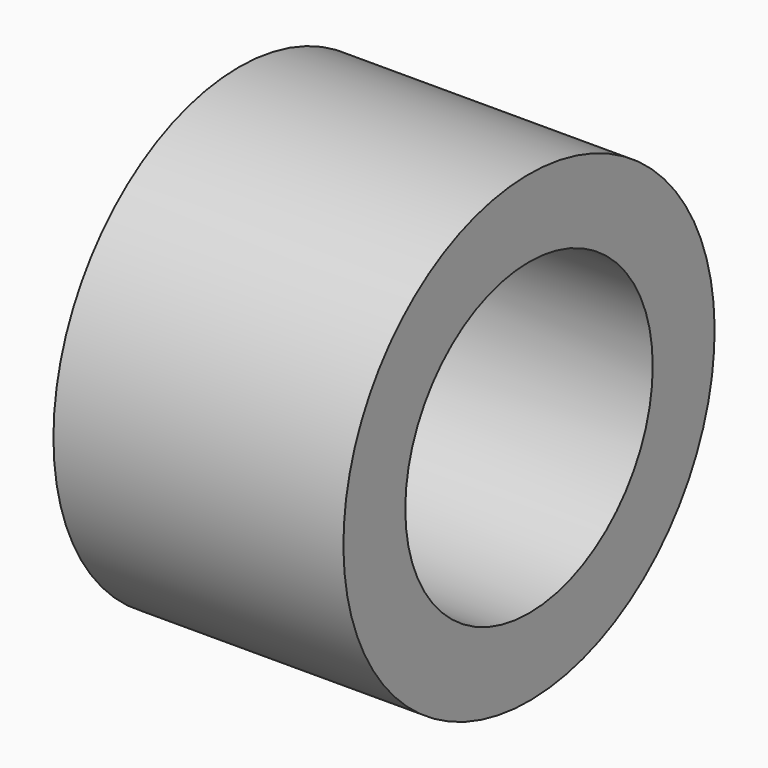
from build123d import *

# Parameters (mm, degrees)
CYLINDER024_R               = 5
CYLINDER024_DEPTH           = 2.5
CYLINDER019_R               = 12
CYLINDER019_DEPTH           = 2.5
CYLINDER027_R               = 8
CYLINDER027_DEPTH           = 12.5
CYLINDER026_R               = 12
CYLINDER026_DEPTH           = 12.5
CYLINDER026_PLACEMENT_ANGLE = 1
FUSION038_PLACEMENT_ANGLE   = 90


with BuildPart() as largeplughole:
    # Cylinder024 → Cylinder024 (new body)
    with BuildSketch(Plane.XY):
        Circle(CYLINDER024_R)
    extrude(amount=CYLINDER024_DEPTH)


with BuildPart() as largeplugbase001:
    # Cylinder019 → Cylinder019 (new body)
    with BuildSketch(Plane.XY):
        Circle(CYLINDER019_R)
    extrude(amount=CYLINDER019_DEPTH)

    # Cut008: cut LargePlugHole
    add(largeplughole.part, mode=Mode.SUBTRACT)


with BuildPart() as largeplugwallhole:
    # Cylinder027 → Cylinder027 (new body)
    with BuildSketch(Plane.XY.offset(2.5)):
        Circle(CYLINDER027_R)
    extrude(amount=CYLINDER027_DEPTH)


with BuildPart() as flow_sensor_out_adapter:
    # Cylinder026 → Cylinder026 (new body)
    with BuildSketch(Plane.XY):
        Circle(CYLINDER026_R)
    extrude(amount=CYLINDER026_DEPTH)


with BuildPart() as flow_sensor_out_adapter_1:
    # Cylinder026 placement: moved
    add(flow_sensor_out_adapter.part.moved(Location((0, 0, 2.5))).rotate(Axis((0, 0, 2.5), (0, 0, 1)), CYLINDER026_PLACEMENT_ANGLE))

    # Cut007: cut LargePlugWallHole
    add(largeplugwallhole.part, mode=Mode.SUBTRACT)

    # Fusion038: union LargePlugBase001
    add(largeplugbase001.part)


with BuildPart() as flow_sensor_out_adapter_2:
    # Fusion038 placement: moved
    add(flow_sensor_out_adapter_1.part.moved(Location((-27.5, -303.75, 119))).rotate(Axis((-27.5, -303.75, 119), (0, 1, 0)), FUSION038_PLACEMENT_ANGLE))


solid = flow_sensor_out_adapter_2.part
